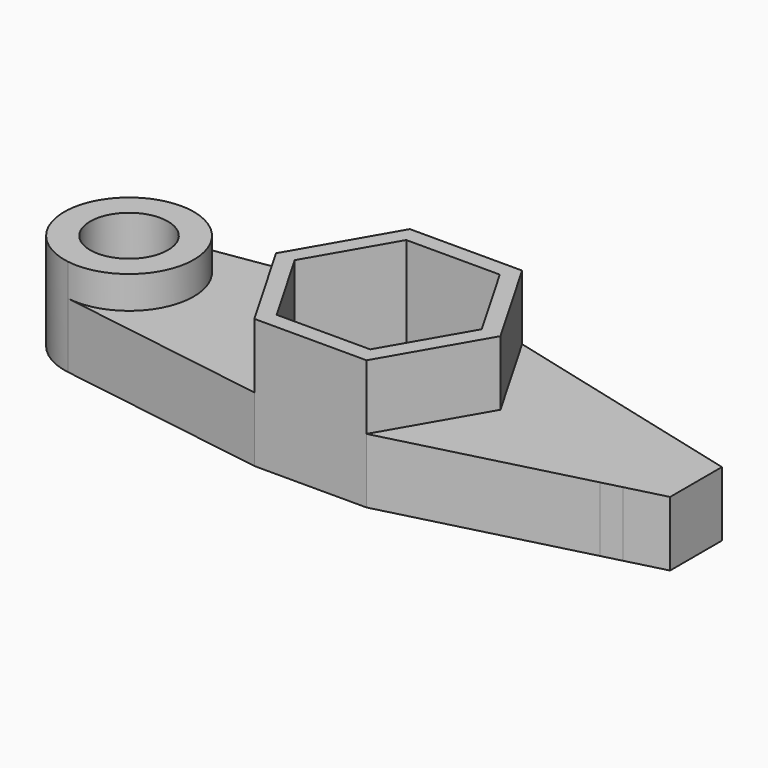
from build123d import *

# Parameters (mm, degrees)
F1_DEPTH = 40
F0_R     = 12
F2_DEPTH = 30
F3_DEPTH = 20


with BuildPart() as f1:
    # F0 (on Top) → F1 (new body)
    with BuildSketch(Plane.XY):
        Polygon((17.3205080757, 30), (-17.3205080757, 30), (-34.6410161514, 0), (-17.3205080757, -30), (0, -30), (17.3205080757, -30), (34.6410161514, 0), align=None)
        Polygon((-28.8675134595, 0), (-14.4337567297, 25), (14.4337567297, 25), (28.8675134595, 0), (14.4337567297, -25), (-14.4337567297, -25), align=None, mode=Mode.SUBTRACT)
    extrude(amount=F1_DEPTH)


with BuildPart() as f2:
    # F0 (on Top) → F2 (new body)
    with BuildSketch(Plane.XY):
        with BuildLine():
            ThreePointArc((-60, 0), (-66.991109672, 15.1910754206), (-83.0768772434, 19.7619034111))
            ThreePointArc((-83.0768772434, 19.7619034111), (-100, 0), (-83.0768772434, -19.7619034111))
            ThreePointArc((-83.0768772434, -19.7619034111), (-66.991109672, -15.1910754206), (-60, 0))
        make_face()
        with Locations((-80, 0)):
            Circle(F0_R, mode=Mode.SUBTRACT)
    extrude(amount=F2_DEPTH)


with BuildPart() as f3:
    # F0 (on Top) → F3 (new body)
    with BuildSketch(Plane.XY):
        with BuildLine():
            Line((-34.6410161514, 0), (-17.3205080757, 30))
            Line((-17.3205080757, 30), (-83.0768772434, 19.7619034111))
            ThreePointArc((-83.0768772434, 19.7619034111), (-66.991109672, 15.1910754206), (-60, 0))
            ThreePointArc((-60, 0), (-66.991109672, -15.1910754206), (-83.0768772434, -19.7619034111))
            Line((-83.0768772434, -19.7619034111), (-17.3205080757, -30))
            Line((-17.3205080757, -30), (-34.6410161514, 0))
        make_face()
    extrude(amount=F3_DEPTH)


with BuildPart() as f3b:
    # F0 (on Top) → F3, piece 2 (new body)
    with BuildSketch(Plane.XY):
        Polygon((77, 14.6344278404), (17.3205080757, 30), (34.6410161514, 0), (17.3205080757, -30), (77, -14.6344278404), align=None)
        Polygon((95, 0), (83, 0), (83, -13.0896185602), (95, -10), align=None)
        Polygon((95, 10), (83, 13.0896185602), (83, 0), (95, 0), align=None)
        Polygon((83, 0), (80, 0), (80, -13.8620232003), (83, -13.0896185602), align=None)
        Polygon((80, 13.8620232003), (77, 14.6344278404), (77, -14.6344278404), (80, -13.8620232003), (80, 0), align=None)
        Polygon((83, 13.0896185602), (80, 13.8620232003), (80, 0), (83, 0), align=None)
    extrude(amount=F3_DEPTH)


solid = Compound([f1.part, f2.part, f3.part, f3b.part])
